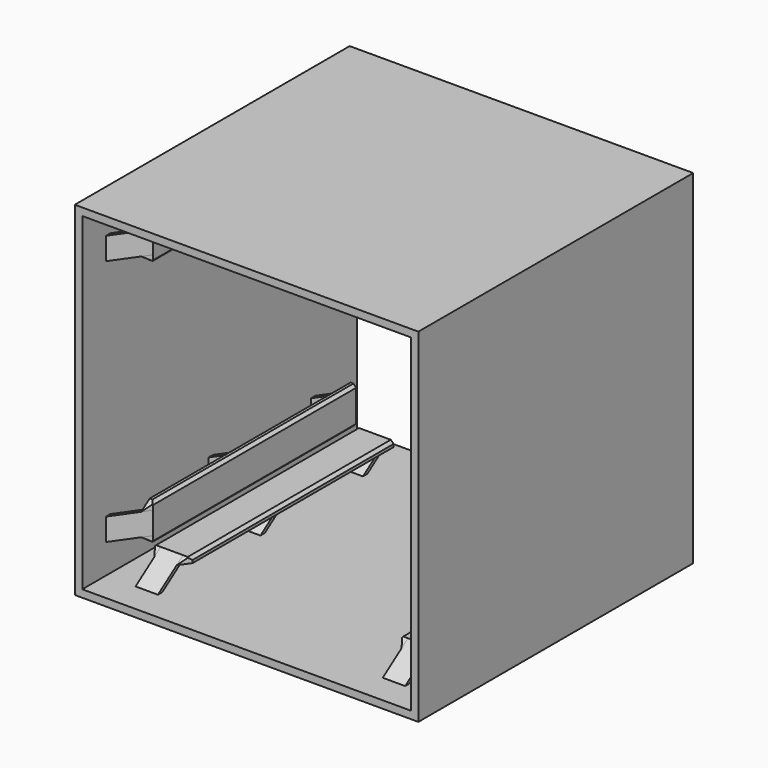
from build123d import *

# Parameters (mm, degrees)
F0_W      = 92
F0_H      = 92
F0_W_2    = 88
F0_H_2    = 88
F1_DEPTH  = 92
F2_W      = 6
F2_H      = 1.459
F2_H_2    = 0.7295
F7_DEPTH  = 5
F8_W      = 10
F8_H      = 7.6772981499
F9_DEPTH  = 3
F10_SIZE  = 0.75
F12_COUNT = 4


with BuildPart() as f1:
    # F0 (on Front) → F1 (new body)
    with BuildSketch(Plane.XZ):
        Rectangle(F0_W, F0_H)
        Rectangle(F0_W_2, F0_H_2, mode=Mode.SUBTRACT)
    extrude(amount=F1_DEPTH)

    # F6: sweep along a path in F5
    with BuildLine(Plane(origin=(-33.1, 0, 0), x_dir=(0, -1, 0), z_dir=(-1, 0, 0))) as f6_path:
        Line((84.0388506204, 44), (75.6127773806, 38.1))
    # F2 (on face) → F6 (sweep)
    with BuildSketch(Plane(origin=(0, 0, 44), x_dir=(1, 0, 0), z_dir=(0, 0, -1))):
        with Locations((-33.1, 83.3093506204)):
            Rectangle(F2_W, F2_H)
        with Locations((-33.1, 48.63525)):
            Rectangle(F2_W, F2_H_2)
        with Locations((-33.1, 49.36475)):
            Rectangle(F2_W, F2_H_2)
        with Locations((-33.1, 14.6906493796)):
            Rectangle(F2_W, F2_H)
    sweep(path=f6_path.line)

    # F5 (on line) → F7 (join, symmetric)
    with BuildSketch(Plane(origin=(-33.1, 0, 0), x_dir=(0, -1, 0), z_dir=(-1, 0, 0))):
        Polygon((75.6127773806, 38.1), (77.7549993907, 39.6), (0, 39.6), (0, 38.1), align=None)
    extrude(amount=F7_DEPTH, both=True)

    # F8 (on face) → F9 (cut)
    with BuildSketch(Plane(origin=(0, 0, 38.1), x_dir=(1, 0, 0), z_dir=(0, 0, -1))):
        Polygon((-38.1, 74.8987033772), (-36.1, 77.7549993907), (-38.1, 77.7549993907), align=None)
        Polygon((-30.1, 77.7549993907), (-28.1, 74.8987033772), (-28.1, 77.7549993907), align=None)
        with Locations((-33.1, 3.838649075)):
            Rectangle(F8_W, F8_H)
    extrude(amount=-F9_DEPTH, mode=Mode.SUBTRACT)

    # F10
    f10_edges = [f1.edges().sort_by_distance(p)[0] for p in [
        (-38.1, -41.288001, 38.1),
        (-28.1, -41.288001, 38.1),
    ]]
    chamfer(f10_edges, length=F10_SIZE)

    # F11: F1 across plane


with BuildPart() as f1_1:
    add(f1.part)
    add(f1.part.mirror(Plane.YZ))

    # F12: F1 ×4 about axis
    f12_axis = Axis((0, -46, 0), (0, -1, 0))


with BuildPart() as f1_2:
    add(f1_1.part)
    for i in range(1, F12_COUNT):
        add(f1_1.part.rotate(f12_axis, i * 360 / F12_COUNT))


solid = f1_2.part
